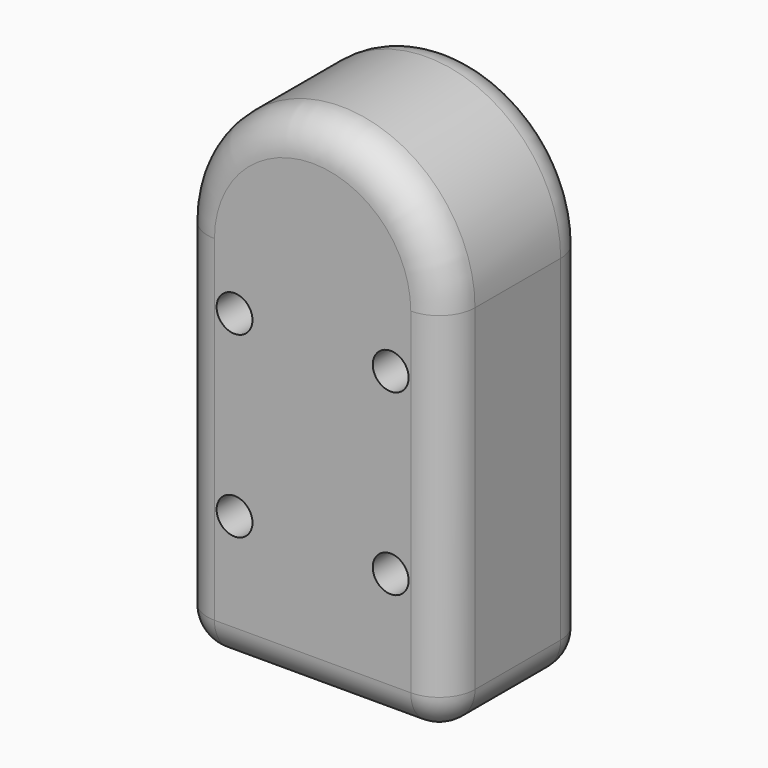
from build123d import *

# Parameters (mm, degrees)
F1_DEPTH = 25.4
F3_D     = 5.1054
F4_R     = 5.08
F5_R     = 5.08


with BuildPart() as f1:
    # F0 (on Front) → F1 (new body)
    with BuildSketch(Plane.XZ):
        with BuildLine():
            Line((19.05, 0), (19.05, 52.9124252498))
            ThreePointArc((19.05, 52.9124252498), (0, 71.9624252498), (-19.05, 52.9124252498))
            Line((-19.05, 52.9124252498), (-19.05, 0))
            Line((-19.05, 0), (19.05, 0))
        make_face()
    extrude(amount=F1_DEPTH)

    # F3 (through all)
    with Locations(Plane.XZ.offset(25.4)):
        with Locations((-11.1125, 44.45), (11.1125, 44.45), (11.1125, 19.05), (-11.1125, 19.05)):
            Hole(F3_D / 2)

    # F4
    f4_edges = [f1.edges().sort_by_distance(p)[0] for p in [
        (-19.05, -12.7, 0),
        (19.05, -12.7, 0),
    ]]
    fillet(f4_edges, radius=F4_R)

    # F5
    f5_edges = [f1.edges().sort_by_distance(p)[0] for p in [
        (-19.05, -25.4, 28.996213),
        (0, -25.4, 0),
        (0, 0, 0),
        (19.05, 0, 28.996213),
    ]]
    fillet(f5_edges, radius=F5_R)


solid = f1.part
